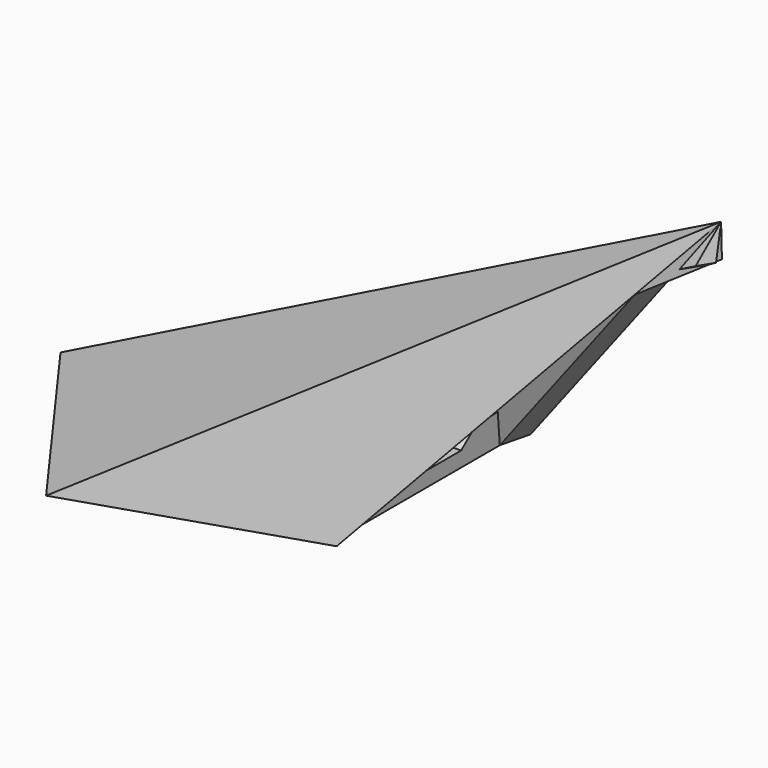
from build123d import *

# Parameters (mm, degrees)
F10_DEPTH = 2
F11_DEPTH = 2
F12_DEPTH = 2
F13_DEPTH = 2
F14_W     = 8.485019207
F14_H     = 5.5162683129
F15_DEPTH = 25.4
F16_W     = 22.2342889756
F16_H     = 4.6487008221
F17_DEPTH = 25.4
F18_W     = 7.9449899495
F18_H     = 7.2886322159
F19_DEPTH = 25.4
F20_W     = 5.9225577861
F20_H     = 11.3939000294
F21_DEPTH = 25.4
F22_DEPTH = 25.4
F24_DEPTH = 2
F25_W     = 2.8602282982
F25_H     = 1.0062001161
F26_DEPTH = 25.4


with BuildPart() as f10:
    # F9 (on 3pt) → F10 (new body)
    with BuildSketch(Plane(origin=(3.3858576339, 10.4205982991, 0.8801059814), x_dir=(-0.9513782964, 0.3069321376, 0.0259229655), z_dir=(0.308024897, 0.9480031547, 0.0800667316))):
        Polygon((7.9863190401, -1.0910055423), (-27.9953896476, 21.7198480533), (-8.0322433603, -0.6742785071), align=None)
    extrude(amount=-F10_DEPTH)

    # F7 (on 3pt) → F11 (join)
    with BuildSketch(Plane(origin=(-2.4612159584, 1.7881780643, 4.9288143129), x_dir=(0.9052277817, 0.144920932, 0.3994503557), z_dir=(-0.4249266563, 0.3087272871, 0.8509552274))):
        Polygon((35.8818855958, -7.4339114282), (-1.9342501918, 12.1864421859), (-12.3389909213, 0), align=None)
    extrude(amount=-F11_DEPTH)

    # F6 (on 3pt) → F12 (join)
    with BuildSketch(Plane(origin=(-2.4612159584, -1.7881780643, 4.9288143129), x_dir=(0.9052277817, -0.144920932, 0.3994503557), z_dir=(-0.4249266563, -0.3087272871, 0.8509552274))):
        Polygon((-1.9342501918, -12.1864421859), (35.8818855958, 7.4339114282), (-12.3389909213, 0), align=None)
    extrude(amount=-F12_DEPTH)

    # F5 (on face) → F13 (join)
    with BuildSketch(Plane(origin=(3.3858576339, -10.4205982991, 0.8801059814), x_dir=(0.9513782964, 0.3069321376, -0.0259229655), z_dir=(0.308024897, -0.9480031547, 0.0800667316))):
        Polygon((8.0322433603, -0.6742785071), (27.9953896476, 21.7198480533), (-7.9863190401, -1.0910055423), align=None)
    extrude(amount=-F13_DEPTH)

    # F14 (on face) → F15 (cut)
    with BuildSketch(Plane(origin=(3.3858576339, -10.4205982991, 0.8801059814), x_dir=(0.9513782964, 0.3069321376, -0.0259229655), z_dir=(0.308024897, -0.9480031547, 0.0800667316))):
        with Locations((25.7894098759, 19.5572990924)):
            Rectangle(F14_W, F14_H)
    extrude(amount=F15_DEPTH, mode=Mode.SUBTRACT)

    # F16 (on face) → F17 (cut)
    with BuildSketch(Plane(origin=(-2.4612159584, 1.7881780643, 4.9288143129), x_dir=(0.9052277817, 0.144920932, 0.3994503557), z_dir=(-0.4249266563, 0.3087272871, 0.8509552274))):
        with Locations((32.4524613097, -6.6612462979)):
            Rectangle(F16_W, F16_H)
    extrude(amount=F17_DEPTH, mode=Mode.SUBTRACT)

    # F18 (on face) → F19 (cut)
    with BuildSketch(Plane(origin=(-2.4612159584, -1.7881780643, 4.9288143129), x_dir=(0.9052277817, -0.144920932, 0.3994503557), z_dir=(-0.4249266563, -0.3087272871, 0.8509552274))):
        with Locations((35.5167929083, 5.7378442725)):
            Rectangle(F18_W, F18_H)
    extrude(amount=F19_DEPTH, mode=Mode.SUBTRACT)

    # F20 (on face) → F21 (cut)
    with BuildSketch(Plane(origin=(3.3858576339, 10.4205982991, 0.8801059814), x_dir=(-0.9513782964, 0.3069321376, 0.0259229655), z_dir=(0.308024897, 0.9480031547, 0.0800667316))):
        with Locations((-26.7476057634, 18.5779468156)):
            Rectangle(F20_W, F20_H)
    extrude(amount=F21_DEPTH, mode=Mode.SUBTRACT)

    # F0 (on Top) → F22 (cut)
    with BuildSketch(Plane.XY):
        Polygon((11.027559638, -8.0119910571), (11.027559638, 8.0119910571), (-4.2121529688, 12.963673848), (-13.6308133385, 0), (-4.2121529688, -12.963673848), align=None)
    extrude(amount=-F22_DEPTH, mode=Mode.SUBTRACT)

    # F23 (on face) → F24 (join)
    with BuildSketch(Plane(origin=(0, 0, 0), x_dir=(1, 0, 0), z_dir=(0, 0, -1))):
        Polygon((6.725183616, 3.5935375892), (6.725183616, -3.5935375892), (10.5510387165, -6.0571244693), (10.5510387165, 6.0571244693), align=None)
        Polygon((10.5510387165, -6.0571244693), (6.725183616, -3.5935375892), (6.725183616, -7.3002201464), align=None)
        Polygon((6.725183616, 7.3002201464), (6.725183616, 3.5935375892), (10.5510387165, 6.0571244693), align=None)
    extrude(amount=-F24_DEPTH)

    # F25 (on face) → F26 (cut)
    with BuildSketch(Plane(origin=(6.725183616, 0, 0), x_dir=(0, -1, 0), z_dir=(-1, 0, 0))):
        Polygon((2.8602282982, 2), (2.8602282982, 0.9937998839), (4.1250204667, 2), align=None)
        with Locations((1.4301141491, 1.4968999419)):
            Rectangle(F25_W, F25_H)
        with Locations((-1.4301141491, 1.4968999419)):
            Rectangle(F25_W, F25_H)
        Polygon((-4.1250204667, 2), (-2.8602282982, 0.9937998839), (-2.8602282982, 2), align=None)
    extrude(amount=-F26_DEPTH, mode=Mode.SUBTRACT)


solid = f10.part
